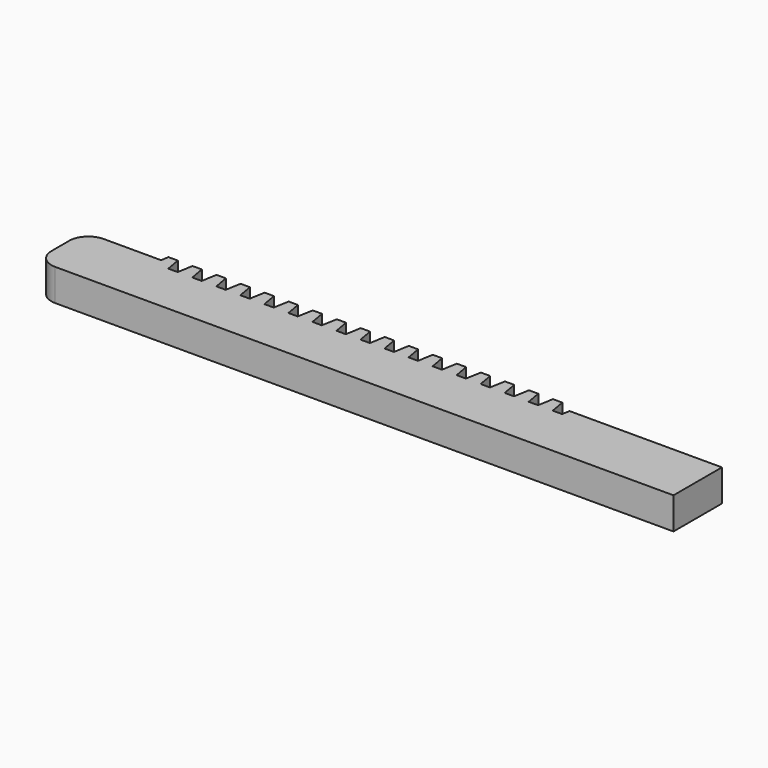
from build123d import *

# Parameters (mm, degrees)
F1_DEPTH = 5
F2_R     = 3
F3_W     = 1
F3_H     = 5
F4_DEPTH = 1


with BuildPart() as f1:
    # F0 (on Top) → F1 (new body)
    with BuildSketch(Plane.XY):
        Polygon((0, 9.5), (0, 0), (12, 0), (78, 0), (100, 0), (100, 9.5), (76.09, 9.5), (75.878408, 8.3), (74.416592, 8.3), (73.993408, 10.7), (72.531592, 10.7), (72.32, 9.5), (72.108408, 8.3), (70.646592, 8.3), (70.223408, 10.7), (68.761592, 10.7), (68.55, 9.5), (68.338408, 8.3), (66.876592, 8.3), (66.453408, 10.7), (64.991592, 10.7), (64.78, 9.5), (64.568408, 8.3), (63.106592, 8.3), (62.683408, 10.7), (61.221592, 10.7), (61.01, 9.5), (60.798408, 8.3), (59.336592, 8.3), (58.913408, 10.7), (57.451592, 10.7), (57.24, 9.5), (57.028408, 8.3), (55.566592, 8.3), (55.143408, 10.7), (53.681592, 10.7), (53.47, 9.5), (53.258408, 8.3), (51.796592, 8.3), (51.373408, 10.7), (49.911592, 10.7), (49.7, 9.5), (49.488408, 8.3), (48.026592, 8.3), (47.603408, 10.7), (46.141592, 10.7), (45.93, 9.5), (45.718408, 8.3), (44.256592, 8.3), (43.833408, 10.7), (42.371592, 10.7), (42.16, 9.5), (41.948408, 8.3), (40.486592, 8.3), (40.063408, 10.7), (38.601592, 10.7), (38.39, 9.5), (38.178408, 8.3), (36.716592, 8.3), (36.293408, 10.7), (34.831592, 10.7), (34.62, 9.5), (34.408408, 8.3), (32.946592, 8.3), (32.523408, 10.7), (31.061592, 10.7), (30.85, 9.5), (30.638408, 8.3), (29.176592, 8.3), (28.753408, 10.7), (27.291592, 10.7), (27.08, 9.5), (26.868408, 8.3), (25.406592, 8.3), (24.983408, 10.7), (23.521592, 10.7), (23.31, 9.5), (23.098408, 8.3), (21.636592, 8.3), (21.213408, 10.7), (19.751592, 10.7), (19.54, 9.5), (19.328408, 8.3), (17.866592, 8.3), (17.443408, 10.7), (15.981592, 10.7), (15.77, 9.5), (15.558408, 8.3), (14.096592, 8.3), (13.673408, 10.7), (12.211592, 10.7), (12, 9.5), align=None)
    extrude(amount=F1_DEPTH)

    # F2
    f2_edges = [f1.edges().sort_by_distance(p)[0] for p in [
        (0, 0, 2.5),
        (0, 9.5, 2.5),
    ]]
    fillet(f2_edges, radius=F2_R)

    # F3 (on face) → F4 (cut)
    with BuildSketch(Plane(origin=(0, 0, 0), x_dir=(1, 0, 0), z_dir=(0, 0, -1))):
        with Locations((84.5, -4)):
            Rectangle(F3_W, F3_H)
        with Locations((82.5, -4)):
            Rectangle(F3_W, F3_H)
        with Locations((80.5, -4)):
            Rectangle(F3_W, F3_H)
        with Locations((78.5, -4)):
            Rectangle(F3_W, F3_H)
        with Locations((76.5, -4)):
            Rectangle(F3_W, F3_H)
        with Locations((74.5, -4)):
            Rectangle(F3_W, F3_H)
        with Locations((72.5, -4)):
            Rectangle(F3_W, F3_H)
        with Locations((70.5, -4)):
            Rectangle(F3_W, F3_H)
        with Locations((68.5, -4)):
            Rectangle(F3_W, F3_H)
        with Locations((66.5, -4)):
            Rectangle(F3_W, F3_H)
        with Locations((64.5, -4)):
            Rectangle(F3_W, F3_H)
        with Locations((62.5, -4)):
            Rectangle(F3_W, F3_H)
        with Locations((60.5, -4)):
            Rectangle(F3_W, F3_H)
        with Locations((58.5, -4)):
            Rectangle(F3_W, F3_H)
        with Locations((56.5, -4)):
            Rectangle(F3_W, F3_H)
        with Locations((54.5, -4)):
            Rectangle(F3_W, F3_H)
        with Locations((52.5, -4)):
            Rectangle(F3_W, F3_H)
        with Locations((50.5, -4)):
            Rectangle(F3_W, F3_H)
        with Locations((48.5, -4)):
            Rectangle(F3_W, F3_H)
        with Locations((46.5, -4)):
            Rectangle(F3_W, F3_H)
        with Locations((44.5, -4)):
            Rectangle(F3_W, F3_H)
        with Locations((42.5, -4)):
            Rectangle(F3_W, F3_H)
        with Locations((40.5, -4)):
            Rectangle(F3_W, F3_H)
        with Locations((38.5, -4)):
            Rectangle(F3_W, F3_H)
        with Locations((36.5, -4)):
            Rectangle(F3_W, F3_H)
        with Locations((34.5, -4)):
            Rectangle(F3_W, F3_H)
        with Locations((32.5, -4)):
            Rectangle(F3_W, F3_H)
        with Locations((30.5, -4)):
            Rectangle(F3_W, F3_H)
        with Locations((28.5, -4)):
            Rectangle(F3_W, F3_H)
        with Locations((26.5, -4)):
            Rectangle(F3_W, F3_H)
        with Locations((24.5, -4)):
            Rectangle(F3_W, F3_H)
        with Locations((22.5, -4)):
            Rectangle(F3_W, F3_H)
        with Locations((20.5, -4)):
            Rectangle(F3_W, F3_H)
        with Locations((18.5, -4)):
            Rectangle(F3_W, F3_H)
        with Locations((16.5, -4)):
            Rectangle(F3_W, F3_H)
        with Locations((14.5, -4)):
            Rectangle(F3_W, F3_H)
        with Locations((12.5, -4)):
            Rectangle(F3_W, F3_H)
        with Locations((10.5, -4)):
            Rectangle(F3_W, F3_H)
        with Locations((8.5, -4)):
            Rectangle(F3_W, F3_H)
        with Locations((6.5, -4)):
            Rectangle(F3_W, F3_H)
    extrude(amount=-F4_DEPTH, mode=Mode.SUBTRACT)


solid = f1.part
